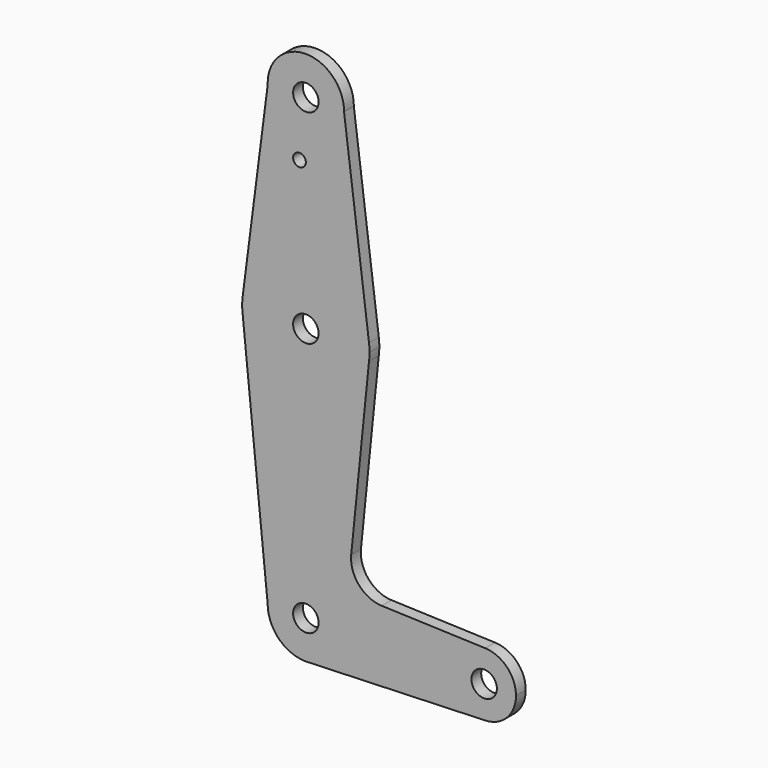
from build123d import *

# Parameters (mm, degrees)
F0_R     = 3.175
F0_R_2   = 1.5875
F1_DEPTH = 3.048


with BuildPart() as f1:
    # F0 (on Front) → F1 (new body)
    with BuildSketch(Plane.XZ):
        with BuildLine():
            ThreePointArc((28.2225225689, -26.1642891574), (34.5157465633, -23.1547073126), (37.0701954412, -16.6634022008))
            ThreePointArc((37.0701954412, -16.6634022008), (27.5569796354, -7.1384094904), (18.0202245997, -16.6398338305))
            ThreePointArc((18.0202245997, -16.6398338305), (20.8016758213, -23.3902564534), (27.5451954412, -26.1884022008))
            Line((27.5451954412, -26.1884022008), (28.2225225689, -26.1642891574))
        make_face()
        with Locations((27.5451954412, -16.6634022008)):
            Circle(F0_R, mode=Mode.SUBTRACT)
        with BuildLine():
            ThreePointArc((18.0202245997, -16.6398338305), (27.5569796354, -7.1384094904), (37.0701954412, -16.6634022008))
            Line((37.0701954412, -16.6634022008), (64.0576954412, -16.6634022008))
            ThreePointArc((64.0576954412, -16.6634022008), (66.4832849565, -10.9517694169), (72.2776007158, -8.7309275862))
            Line((72.2776007158, -8.7309275862), (46.4777362654, -7.81242256))
            ThreePointArc((46.4777362654, -7.81242256), (40.7688376701, -5.0926309441), (38.8507860151, 0.9331360158))
            Line((38.8507860151, 0.9331360158), (43.2920660684, 44.8237166672))
            ThreePointArc((43.2920660684, 44.8237166672), (27.5517568758, 30.9615991552), (11.7999941169, 44.8107004035))
            Line((11.7999941169, 44.8107004035), (18.0202245997, -16.6398338305))
        make_face()
        with BuildLine():
            Line((64.0576954412, -16.6634022008), (37.0701954412, -16.6634022008))
            ThreePointArc((37.0701954412, -16.6634022008), (34.5157465633, -23.1547073126), (28.2225225689, -26.1642891574))
            Line((28.2225225689, -26.1642891574), (71.9951954412, -24.6059692297))
            Line((71.9951954412, -24.6059692297), (72.2786775841, -24.5958384044))
            ThreePointArc((72.2786775841, -24.5958384044), (66.4836726598, -22.3754091055), (64.0576954412, -16.6634022008))
        make_face()
        with BuildLine():
            ThreePointArc((72.2776007158, -8.7309275862), (66.4832849565, -10.9517694169), (64.0576954412, -16.6634022008))
            ThreePointArc((64.0576954412, -16.6634022008), (66.4836726598, -22.3754091055), (72.2786775841, -24.5958384044))
            ThreePointArc((72.2786775841, -24.5958384044), (77.7072023459, -22.1749249822), (79.9326954412, -16.6634022008))
            ThreePointArc((79.9326954412, -16.6634022008), (77.7068282251, -11.1514917161), (72.2776007158, -8.7309275862))
        make_face()
        with BuildLine():
            ThreePointArc((75.1701954412, -16.6634022008), (71.9951954412, -19.8384022008), (68.8201954412, -16.6634022008))
            ThreePointArc((68.8201954412, -16.6634022008), (71.9951954412, -13.4884022008), (75.1701954412, -16.6634022008))
        make_face(mode=Mode.SUBTRACT)
        with BuildLine():
            ThreePointArc((27.5451954412, -26.1884022008), (27.8840735449, -26.1823720311), (28.2225225689, -26.1642891574))
            Line((28.2225225689, -26.1642891574), (27.5451954412, -26.1884022008))
        make_face()
        with BuildLine():
            ThreePointArc((11.7999941169, 48.862495195), (11.6701954412, 46.8365977992), (11.7999941169, 44.8107004035))
            ThreePointArc((11.7999941169, 44.8107004035), (27.5517568758, 30.9615991552), (43.2920660684, 44.8237166672))
            ThreePointArc((43.2920660684, 44.8237166672), (43.3881307154, 45.8281202849), (43.4201954412, 46.8365977992))
            ThreePointArc((43.4201954412, 46.8365977992), (43.3881307154, 47.8450753136), (43.2920660684, 48.8494789312))
            ThreePointArc((43.2920660684, 48.8494789312), (27.5517568758, 62.7115964432), (11.7999941169, 48.862495195))
        make_face()
        with Locations((27.5451954412, 46.8365977992)):
            Circle(F0_R, mode=Mode.SUBTRACT)
        with BuildLine():
            Line((18.027535866, 97.262724545), (11.7999941169, 48.862495195))
            ThreePointArc((11.7999941169, 48.862495195), (27.5517568758, 62.7115964432), (43.2920660684, 48.8494789312))
            Line((43.2920660684, 48.8494789312), (37.0695797902, 97.5283029528))
            ThreePointArc((37.0695797902, 97.5283029528), (27.6780272082, 88.1125240531), (18.027535866, 97.262724545))
        make_face()
        with Locations((25.9576954412, 83.3617977992)):
            Circle(F0_R_2, mode=Mode.SUBTRACT)
        with BuildLine():
            ThreePointArc((37.0701954412, 97.6365977992), (27.3582227881, 107.1597625162), (18.027535866, 97.262724545))
            ThreePointArc((18.027535866, 97.262724545), (27.6780272082, 88.1125240531), (37.0695797902, 97.5283029528))
            ThreePointArc((37.0695797902, 97.5283029528), (37.0700415272, 97.582449501), (37.0701954412, 97.6365977992))
        make_face()
        with Locations((27.5451954412, 97.6365977992)):
            Circle(F0_R, mode=Mode.SUBTRACT)
    extrude(amount=F1_DEPTH)


solid = f1.part
